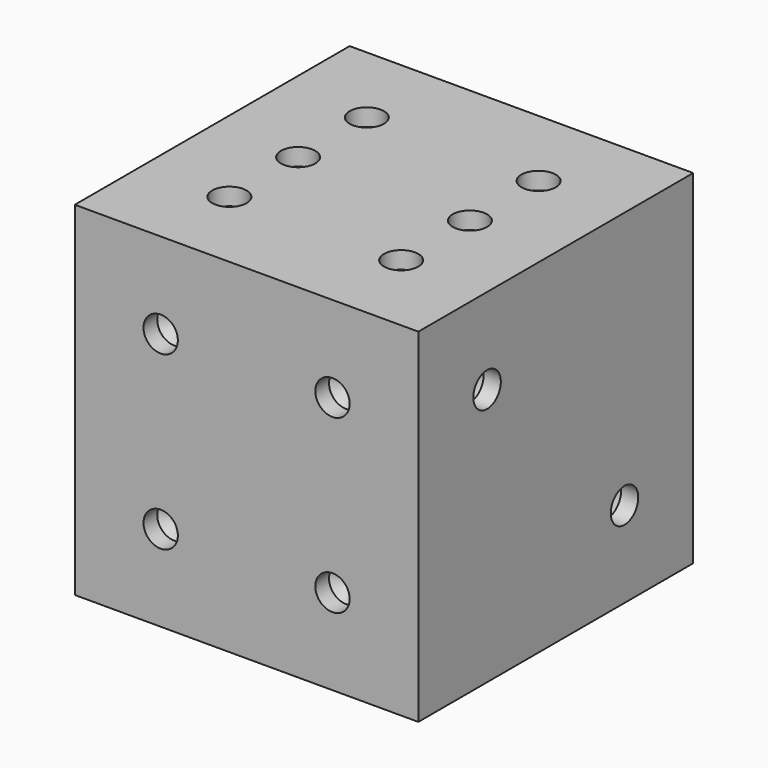
from build123d import *

# Parameters (mm, degrees)
F0_W      = 25.4
F0_H      = 25.4
F1_DEPTH  = 25.4
F7_D      = 2.54
F7_DEPTH  = 1.27
F7_TIP    = 0.7630929862
F8_D      = 2.54
F8_DEPTH  = 1.27
F8_TIP    = 0.7630929862
F9_D      = 2.54
F9_DEPTH  = 1.27
F9_TIP    = 0.7630929862
F10_D     = 2.54
F10_DEPTH = 1.27
F10_TIP   = 0.7630929862
F11_D     = 2.54
F11_DEPTH = 1.27
F11_TIP   = 0.7630929862
F12_D     = 2.54
F12_DEPTH = 1.27
F12_TIP   = 0.7630929862


with BuildPart() as f1:
    # F0 (on Top) → F1 (new body)
    with BuildSketch(Plane.XY):
        Rectangle(F0_W, F0_H)
    extrude(amount=F1_DEPTH)

    # F7
    with Locations(Plane.XY.offset(25.4)):
        with Locations((-6.35, 6.35), (6.35, 6.35), (-6.35, 0), (-6.35, -6.35), (6.35, 0), (6.35, -6.35)):
            Hole(F7_D / 2, depth=F7_DEPTH)
            with Locations((0, 0, -(F7_DEPTH + F7_TIP / 2))):  # 118° drill point
                Cone(0, F7_D / 2, F7_TIP, mode=Mode.SUBTRACT)

    # F8
    with Locations(Plane.XZ.offset(12.7)):
        with Locations((-6.35, 19.05), (6.35, 19.05), (6.35, 6.35), (-6.35, 6.35)):
            Hole(F8_D / 2, depth=F8_DEPTH)
            with Locations((0, 0, -(F8_DEPTH + F8_TIP / 2))):  # 118° drill point
                Cone(0, F8_D / 2, F8_TIP, mode=Mode.SUBTRACT)

    # F9
    with Locations(Plane(origin=(-12.7, 0, 0), x_dir=(0, -1, 0), z_dir=(-1, 0, 0))):
        with Locations((-6.35, 6.35), (-6.35, 19.05), (6.35, 19.05), (6.35, 6.35), (0, 12.7)):
            Hole(F9_D / 2, depth=F9_DEPTH)
            with Locations((0, 0, -(F9_DEPTH + F9_TIP / 2))):  # 118° drill point
                Cone(0, F9_D / 2, F9_TIP, mode=Mode.SUBTRACT)

    # F10
    with Locations(Plane(origin=(0, 12.7, 0), x_dir=(-1, 0, 0), z_dir=(0, 1, 0))):
        with Locations((6.35, 6.35), (0, 12.7), (-6.35, 19.05)):
            Hole(F10_D / 2, depth=F10_DEPTH)
            with Locations((0, 0, -(F10_DEPTH + F10_TIP / 2))):  # 118° drill point
                Cone(0, F10_D / 2, F10_TIP, mode=Mode.SUBTRACT)

    # F11
    with Locations(Plane(origin=(0, 0, 0), x_dir=(1, 0, 0), z_dir=(0, 0, -1))):
        with Locations((0, 0)):
            Hole(F11_D / 2, depth=F11_DEPTH)
            with Locations((0, 0, -(F11_DEPTH + F11_TIP / 2))):  # 118° drill point
                Cone(0, F11_D / 2, F11_TIP, mode=Mode.SUBTRACT)

    # F12
    with Locations(Plane.YZ.offset(12.7)):
        with Locations((-6.35, 19.05), (6.35, 6.35)):
            Hole(F12_D / 2, depth=F12_DEPTH)
            with Locations((0, 0, -(F12_DEPTH + F12_TIP / 2))):  # 118° drill point
                Cone(0, F12_D / 2, F12_TIP, mode=Mode.SUBTRACT)


solid = f1.part
